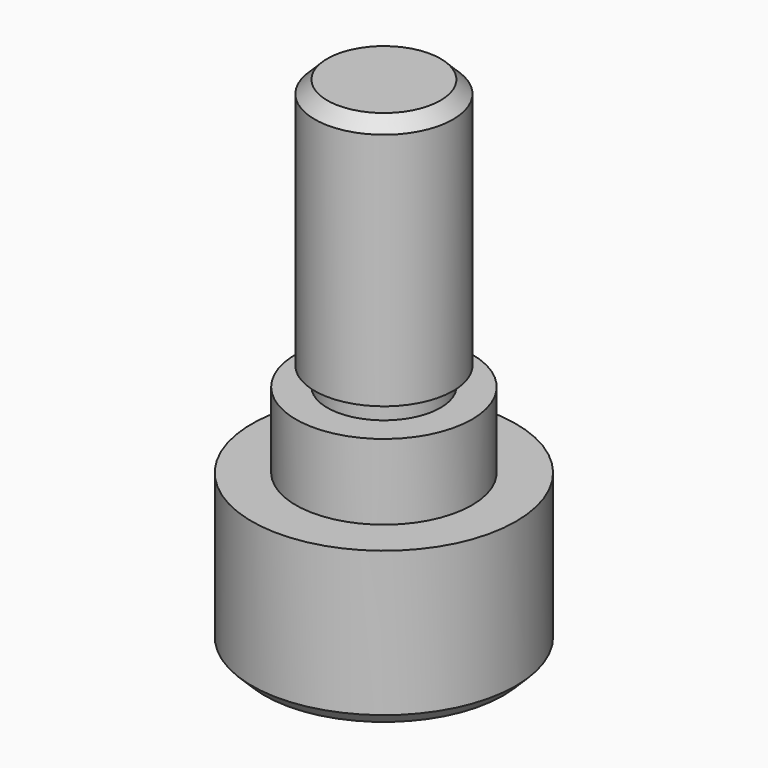
from build123d import *

# Parameters (mm, degrees)
F2_SIZE2 = 2
F2_SIZE  = 2


with BuildPart() as f1:
    # F0 (on Front) → F1 (revolve)
    with BuildSketch(Plane.XZ):
        Polygon((0, 80), (0, 0), (21, 0), (21, 25), (14, 25), (14, 37), (9, 37), (9, 40), (11, 40), (11, 80), align=None)
    revolve(axis=Axis((0, 0, 40), (0, 0, -1)))

    # F2
    f2_edges = [f1.edges().sort_by_distance(p)[0] for p in [
        (-11, 0, 80),
        (-21, 0, 0),
    ]]
    chamfer(f2_edges, length=F2_SIZE, length2=F2_SIZE2)


solid = f1.part
